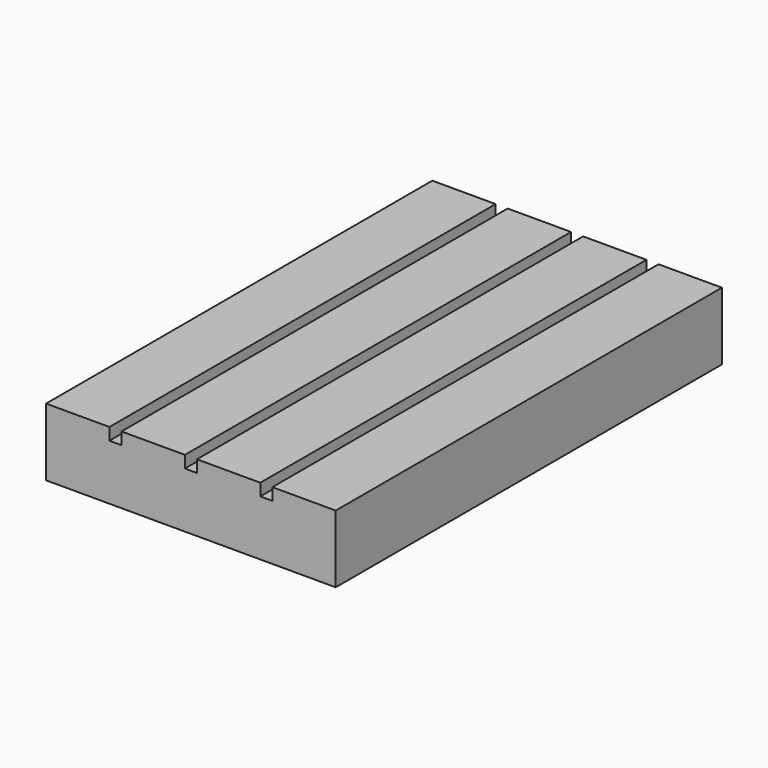
from build123d import *

# Parameters (mm, degrees)
F0_W     = 76.2
F0_H     = 127
F1_DEPTH = 17.78
F2_W     = 3.175
F2_H     = 3.175
F3_DEPTH = 127.001


with BuildPart() as f1:
    # F0 (on Top) → F1 (new body)
    with BuildSketch(Plane.XY):
        Rectangle(F0_W, F0_H)
    extrude(amount=F1_DEPTH)

    # F2 (on face) → F3 (cut, through all)
    with BuildSketch(Plane.XZ.offset(63.5)):
        with Locations((0, 16.1925)):
            Rectangle(F2_W, F2_H)
        with Locations((19.84375, 16.1925)):
            Rectangle(F2_W, F2_H)
        with Locations((-19.84375, 16.1925)):
            Rectangle(F2_W, F2_H)
    extrude(amount=-F3_DEPTH, mode=Mode.SUBTRACT)


solid = f1.part
